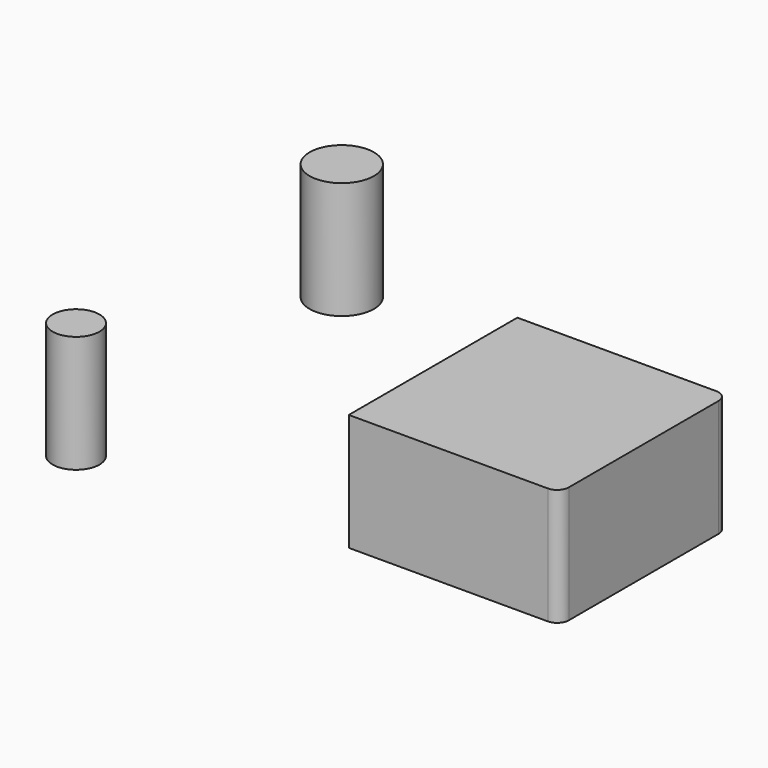
from build123d import *

# Parameters (mm, degrees)
F1_DEPTH = 508
F2_R     = 101.6
F3_DEPTH = 508
F4_R     = 139.7
F5_DEPTH = 508


with BuildPart() as f1:
    # F0 (on Top) → F1 (new body)
    with BuildSketch(Plane.XY):
        with BuildLine():
            ThreePointArc((457.2, 406.4), (442.321024, 442.321024), (406.4, 457.2))
            Line((406.4, 457.2), (-457.2, 457.2))
            Line((-457.2, 457.2), (-457.2, -457.2))
            Line((-457.2, -457.2), (406.4, -457.2))
            ThreePointArc((406.4, -457.2), (442.321024, -442.321024), (457.2, -406.4))
            Line((457.2, -406.4), (457.2, 406.4))
        make_face()
    extrude(amount=F1_DEPTH)


with BuildPart() as f3:
    # F2 (on Top) → F3 (new body)
    with BuildSketch(Plane.XY):
        with Locations((-1600.2, -508)):
            Circle(F2_R)
    extrude(amount=F3_DEPTH)


with BuildPart() as f5:
    # F4 (on Top) → F5 (new body)
    with BuildSketch(Plane.XY):
        with Locations((-1625.6, 965.2)):
            Circle(F4_R)
    extrude(amount=F5_DEPTH)


solid = Compound([f1.part, f3.part, f5.part])
